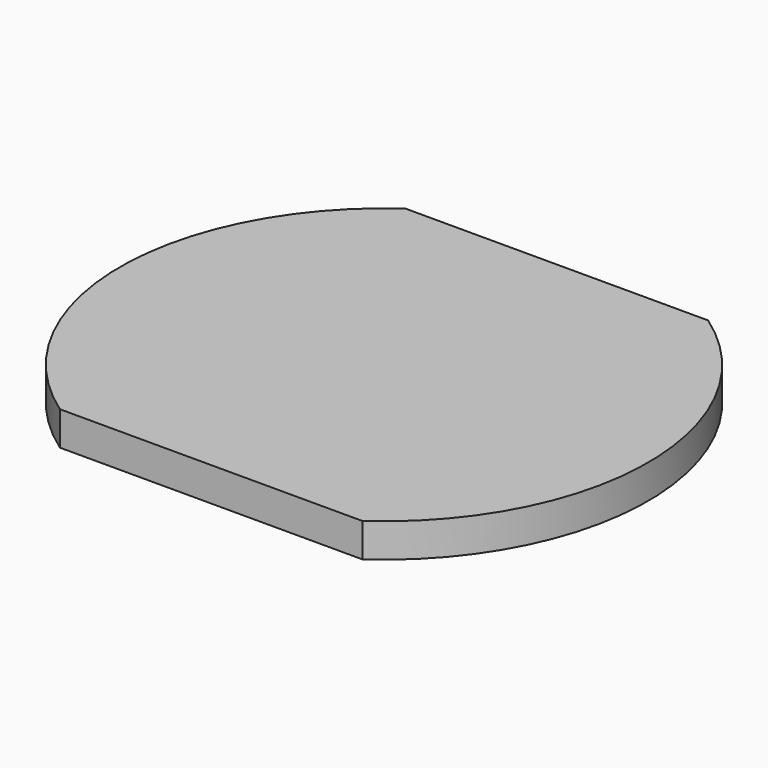
from build123d import *

# Parameters (mm, degrees)
PAD_1_DEPTH = 5


with BuildPart() as part:
    # Sketch_1 → Pad_1 (new body)
    with BuildSketch(Plane.XY):
        with BuildLine():
            ThreePointArc((22.431942, -25.337151), (39.047986, 6.729112), (22.261972, 38.706728))
            Line((22.261972, 38.706728), (-22.450773, 38.706728))
            ThreePointArc((-22.450773, 38.706728), (-39.053018, 6.635567), (-22.261972, -25.337151))
            Line((-22.261972, -25.337151), (22.431942, -25.337151))
        make_face()
    extrude(amount=PAD_1_DEPTH)


solid = part.part
